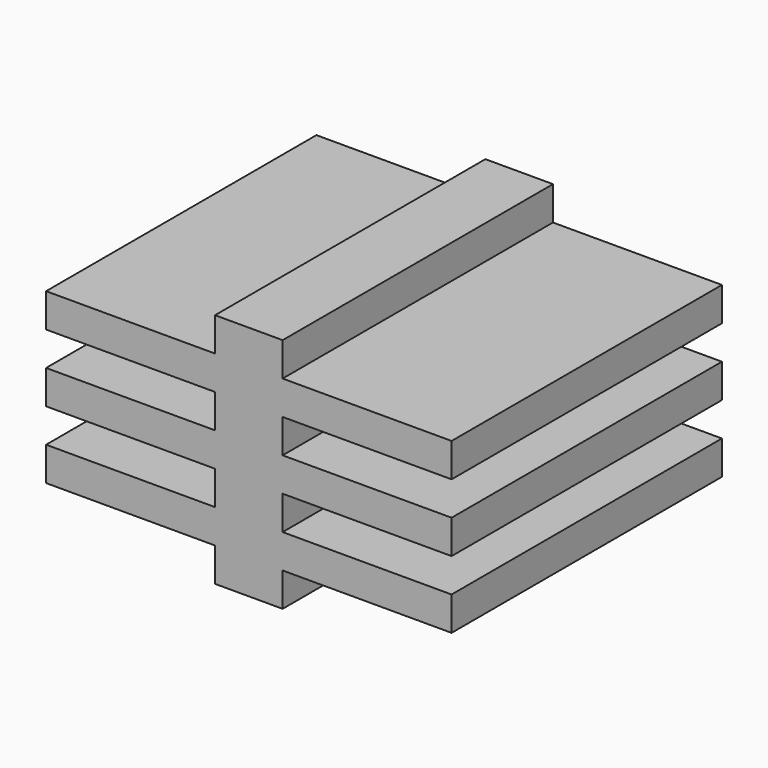
from build123d import *

# Parameters (mm, degrees)
F0_W     = 10
F0_H     = 5
F0_W_2   = 25
F1_DEPTH = 50


with BuildPart() as f1:
    # F0 (on Front) → F1 (new body)
    with BuildSketch(Plane.XZ):
        with Locations((0, 42.5)):
            Rectangle(F0_W, F0_H)
        with Locations((0, 37.5)):
            Rectangle(F0_W, F0_H)
        with Locations((-17.5, 37.5)):
            Rectangle(F0_W_2, F0_H)
        with Locations((17.5, 37.5)):
            Rectangle(F0_W_2, F0_H)
        with Locations((0, 32.5)):
            Rectangle(F0_W, F0_H)
        with Locations((0, 27.5)):
            Rectangle(F0_W, F0_H)
        with Locations((-17.5, 27.5)):
            Rectangle(F0_W_2, F0_H)
        with Locations((17.5, 27.5)):
            Rectangle(F0_W_2, F0_H)
        with Locations((0, 22.5)):
            Rectangle(F0_W, F0_H)
        with Locations((0, 17.5)):
            Rectangle(F0_W, F0_H)
        with Locations((-17.5, 17.5)):
            Rectangle(F0_W_2, F0_H)
        with Locations((17.5, 17.5)):
            Rectangle(F0_W_2, F0_H)
        with Locations((0, 12.5)):
            Rectangle(F0_W, F0_H)
    extrude(amount=F1_DEPTH)


solid = f1.part
